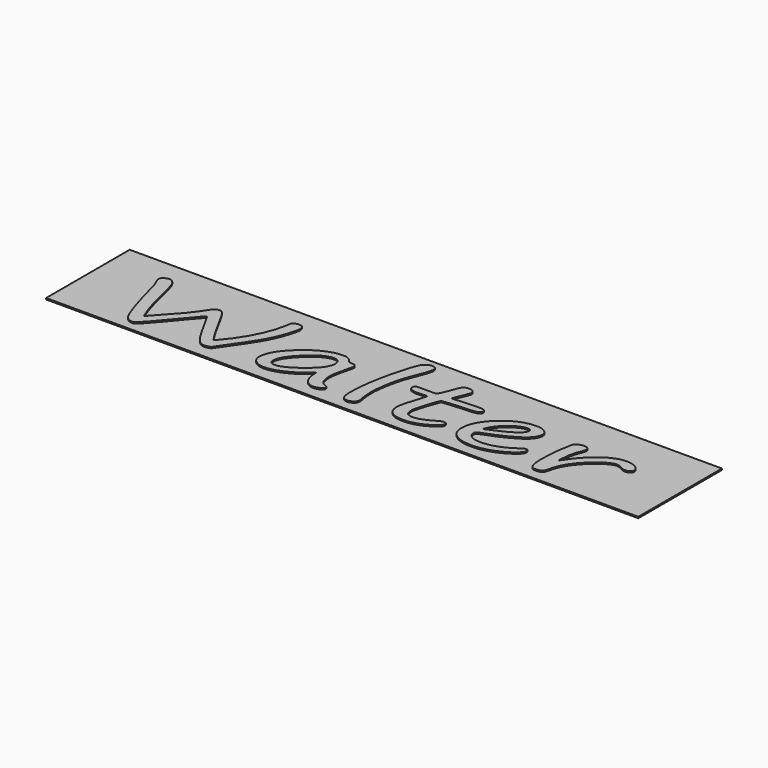
from build123d import *

# Parameters (mm, degrees)
F2_DEPTH = 10
F1_W     = 2210
F1_H     = 390
F3_DEPTH = 5


with BuildPart() as f2:
    # F0 (on Top) → F2 (new body)
    with BuildSketch(Plane.XY):
        with BuildLine():
            add(Edge.make_bspline(
                [(-660.5016762, -1.1913362), (-666.5863732, -6.8106798), (-677.7714664, -19.4541648), (-694.0569558, -39.1218166)],
                knots=[0, 0, 0, 0, 1, 1, 1, 1], degree=3))
            add(Edge.make_bspline(
                [(-645.2004876, -27.9441656), (-650.2113996, -18.2935372), (-655.3117958, -9.3759274), (-660.5016762, -1.1913362)],
                knots=[0, 0, 0, 0, 1, 1, 1, 1], degree=3))
            add(Edge.make_bspline(
                [(-610.3030212, -90.978609), (-626.4095422, -63.0039634), (-638.042031, -41.9924738), (-645.2004876, -27.9441656)],
                knots=[0, 0, 0, 0, 1, 1, 1, 1], degree=3))
            add(Edge.make_bspline(
                [(-574.3317698, -141.3695674), (-582.2060746, -135.6282276), (-594.1965002, -118.831233), (-610.3030212, -90.978609)],
                knots=[0, 0, 0, 0, 1, 1, 1, 1], degree=3))
            add(Edge.make_bspline(
                [(-550.9773334, -149.9821486), (-558.6726698, -149.9821486), (-566.4574904, -147.1112882), (-574.3317698, -141.3695674)],
                knots=[0, 0, 0, 0, 1, 1, 1, 1], degree=3))
            add(Edge.make_bspline(
                [(-538.897449, -147.6000858), (-543.908361, -149.1881192), (-547.9349722, -149.9821486), (-550.9773334, -149.9821486)],
                knots=[0, 0, 0, 0, 1, 1, 1, 1], degree=3))
            add(Edge.make_bspline(
                [(-528.428204, -141.7361656), (-530.2178118, -144.0570144), (-533.7075432, -146.0116714), (-538.897449, -147.6000858)],
                knots=[0, 0, 0, 0, 1, 1, 1, 1], degree=3))
            add(Edge.make_bspline(
                [(-515.2745346, -122.4961228), (-520.464415, -129.7034744), (-524.848963, -136.116822), (-528.428204, -141.7361656)],
                knots=[0, 0, 0, 0, 1, 1, 1, 1], degree=3))
            add(Edge.make_bspline(
                [(-448.1640262, -22.9964488), (-461.4071544, -44.740957), (-483.7773408, -77.907515), (-515.2745346, -122.4961228)],
                knots=[0, 0, 0, 0, 1, 1, 1, 1], degree=3))
            add(Edge.make_bspline(
                [(-413.8034396, 48.4669846), (-423.2883838, 22.6911916), (-434.7419042, -1.1299444), (-448.1640262, -22.9964488)],
                knots=[0, 0, 0, 0, 1, 1, 1, 1], degree=3))
            add(Edge.make_bspline(
                [(-399.307558, 106.7373278), (-399.307558, 93.78823), (-404.139527, 74.3647738), (-413.8034396, 48.4669846)],
                knots=[0, 0, 0, 0, 1, 1, 1, 1], degree=3))
            add(Edge.make_bspline(
                [(-420.7829278, 125.4277654), (-406.4660146, 125.4277654), (-399.307558, 119.1976026), (-399.307558, 106.7373278)],
                knots=[0, 0, 0, 0, 1, 1, 1, 1], degree=3))
            add(Edge.make_bspline(
                [(-434.473477, 120.8466468), (-429.641508, 123.9007174), (-425.0779916, 125.4277654), (-420.7829278, 125.4277654)],
                knots=[0, 0, 0, 0, 1, 1, 1, 1], degree=3))
            add(Edge.make_bspline(
                [(-441.4529652, 113.8834908), (-441.4529652, 115.5939268), (-439.1264776, 117.9149788), (-434.473477, 120.8466468)],
                knots=[0, 0, 0, 0, 1, 1, 1, 1], degree=3))
            add(Edge.make_bspline(
                [(-551.2457606, -107.2869838), (-488.251373, -36.1897422), (-451.6537576, 37.5337324), (-441.4529652, 113.8834908)],
                knots=[0, 0, 0, 0, 1, 1, 1, 1], degree=3))
            add(Edge.make_bspline(
                [(-614.8665376, -0.6411468), (-583.7272552, -59.888882), (-562.520338, -95.4375028), (-551.2457606, -107.2869838)],
                knots=[0, 0, 0, 0, 1, 1, 1, 1], degree=3))
            add(Edge.make_bspline(
                [(-641.173851, 43.1532538), (-636.162939, 37.900356), (-627.393843, 23.302214), (-614.8665376, -0.6411468)],
                knots=[0, 0, 0, 0, 1, 1, 1, 1], degree=3))
            add(Edge.make_bspline(
                [(-654.5959476, 51.2156456), (-650.6588206, 51.2156456), (-646.1847884, 48.5281986), (-641.173851, 43.1532538)],
                knots=[0, 0, 0, 0, 1, 1, 1, 1], degree=3))
            add(Edge.make_bspline(
                [(-676.0713174, 41.5038286), (-670.881437, 47.9783902), (-663.7229804, 51.2156456), (-654.5959476, 51.2156456)],
                knots=[0, 0, 0, 0, 1, 1, 1, 1], degree=3))
            add(Edge.make_bspline(
                [(-722.2433612, -22.8134418), (-711.3267206, -9.4979236), (-695.9360478, 11.9411496), (-676.0713174, 41.5038286)],
                knots=[0, 0, 0, 0, 1, 1, 1, 1], degree=3))
            add(Edge.make_bspline(
                [(-805.7288432, -115.7159738), (-760.9884958, -66.9740596), (-733.1600018, -36.006532), (-722.2433612, -22.8134418)],
                knots=[0, 0, 0, 0, 1, 1, 1, 1], degree=3))
            add(Edge.make_bspline(
                [(-852.9746466, 40.7706068), (-837.5839738, -28.249753), (-821.8353642, -80.411955), (-805.7288432, -115.7159738)],
                knots=[0, 0, 0, 0, 1, 1, 1, 1], degree=3))
            add(Edge.make_bspline(
                [(-872.5709244, 100.6903752), (-866.6651958, 92.5058094), (-860.1331032, 72.5325448), (-852.9746466, 40.7706068)],
                knots=[0, 0, 0, 0, 1, 1, 1, 1], degree=3))
            add(Edge.make_bspline(
                [(-892.9725092, 113.1508786), (-885.0982044, 113.1508786), (-878.2976846, 108.997369), (-872.5709244, 100.6903752)],
                knots=[0, 0, 0, 0, 1, 1, 1, 1], degree=3))
            add(Edge.make_bspline(
                [(-910.689695, 107.286933), (-905.3208462, 111.1962216), (-899.4151176, 113.1508786), (-892.9725092, 113.1508786)],
                knots=[0, 0, 0, 0, 1, 1, 1, 1], degree=3))
            add(Edge.make_bspline(
                [(-918.4745156, 94.460441), (-918.4745156, 99.2245412), (-915.8795754, 103.500047), (-910.689695, 107.286933)],
                knots=[0, 0, 0, 0, 1, 1, 1, 1], degree=3))
            add(Edge.make_bspline(
                [(-911.7634546, 73.9375712), (-916.2374868, 83.0993766), (-918.4745156, 89.9403332), (-918.4745156, 94.460441)],
                knots=[0, 0, 0, 0, 1, 1, 1, 1], degree=3))
            add(Edge.make_bspline(
                [(-901.8310894, 47.5507812), (-905.231362, 58.3010264), (-908.5421504, 67.0966146), (-911.7634546, 73.9375712)],
                knots=[0, 0, 0, 0, 1, 1, 1, 1], degree=3))
            add(Edge.make_bspline(
                [(-868.5442878, -72.2881714), (-881.608473, -30.5096164), (-892.704082, 9.4367096), (-901.8310894, 47.5507812)],
                knots=[0, 0, 0, 0, 1, 1, 1, 1], degree=3))
            add(Edge.make_bspline(
                [(-837.4050054, -149.4319338), (-844.9213734, -139.7813308), (-855.3011342, -114.0667264), (-868.5442878, -72.2881714)],
                knots=[0, 0, 0, 0, 1, 1, 1, 1], degree=3))
            add(Edge.make_bspline(
                [(-807.8763878, -164.0914676), (-820.0457564, -164.0914676), (-829.8886374, -159.2049648), (-837.4050054, -149.4319338)],
                knots=[0, 0, 0, 0, 1, 1, 1, 1], degree=3))
            add(Edge.make_bspline(
                [(-694.0569558, -39.1218166), (-761.8833124, -122.4349088), (-799.8231146, -164.0914676), (-807.8763878, -164.0914676)],
                knots=[0, 0, 0, 0, 1, 1, 1, 1], degree=3))
        make_face()
    extrude(amount=F2_DEPTH)



with BuildPart() as f2b:
    # F0 (on Top) → F2, piece 2 (new body)
    with BuildSketch(Plane.XY):
        with BuildLine():
            add(Edge.make_bspline(
                [(-190.7281174, -79.4343344), (-215.7826774, -102.4004556), (-240.5688102, -119.6250592), (-265.0865158, -131.1081198)],
                knots=[0, 0, 0, 0, 1, 1, 1, 1], degree=3))
            add(Edge.make_bspline(
                [(-177.30597, -134.7730096), (-186.2540598, -121.8239118), (-190.7281174, -103.3776952), (-190.7281174, -79.4343344)],
                knots=[0, 0, 0, 0, 1, 1, 1, 1], degree=3))
            add(Edge.make_bspline(
                [(-143.213836, -154.1966436), (-156.9938694, -154.1966436), (-168.357931, -147.7221074), (-177.30597, -134.7730096)],
                knots=[0, 0, 0, 0, 1, 1, 1, 1], degree=3))
            add(Edge.make_bspline(
                [(-120.9331592, -148.3327234), (-128.6284956, -152.242012), (-136.0553794, -154.1966436), (-143.213836, -154.1966436)],
                knots=[0, 0, 0, 0, 1, 1, 1, 1], degree=3))
            add(Edge.make_bspline(
                [(-109.3901546, -136.97204), (-109.3901546, -140.7589514), (-113.2378228, -144.5458374), (-120.9331592, -148.3327234)],
                knots=[0, 0, 0, 0, 1, 1, 1, 1], degree=3))
            add(Edge.make_bspline(
                [(-121.2016118, -126.1610126), (-113.327307, -129.0926806), (-109.3901546, -132.6963564), (-109.3901546, -136.97204)],
                knots=[0, 0, 0, 0, 1, 1, 1, 1], degree=3))
            add(Edge.make_bspline(
                [(-145.898235, -73.0213932), (-145.898235, -102.5840722), (-137.6660188, -120.2972702), (-121.2016118, -126.1610126)],
                knots=[0, 0, 0, 0, 1, 1, 1, 1], degree=3))
            add(Edge.make_bspline(
                [(-131.4023788, 3.20675), (-141.066266, -32.8304652), (-145.898235, -58.2398632), (-145.898235, -73.0213932)],
                knots=[0, 0, 0, 0, 1, 1, 1, 1], degree=3))
            add(Edge.make_bspline(
                [(-128.7179798, 18.781903), (-128.7179798, 14.995017), (-129.612771, 9.8033078), (-131.4023788, 3.20675)],
                knots=[0, 0, 0, 0, 1, 1, 1, 1], degree=3))
            add(Edge.make_bspline(
                [(-150.1932988, 30.1431706), (-135.8764364, 30.1431706), (-128.7179798, 26.3560814), (-128.7179798, 18.781903)],
                knots=[0, 0, 0, 0, 1, 1, 1, 1], degree=3))
            add(Edge.make_bspline(
                [(-161.1994236, 36.0065066), (-158.872936, 32.0976244), (-155.2042362, 30.1431706), (-150.1932988, 30.1431706)],
                knots=[0, 0, 0, 0, 1, 1, 1, 1], degree=3))
            add(Edge.make_bspline(
                [(-194.754754, 53.5977084), (-179.7219926, 53.5977084), (-168.5368994, 47.733966), (-161.1994236, 36.0065066)],
                knots=[0, 0, 0, 0, 1, 1, 1, 1], degree=3))
            add(Edge.make_bspline(
                [(-320.1171652, -2.107565), (-278.0612676, 35.0292924), (-236.2737972, 53.5977084), (-194.754754, 53.5977084)],
                knots=[0, 0, 0, 0, 1, 1, 1, 1], degree=3))
            add(Edge.make_bspline(
                [(-383.201037, -105.8211498), (-383.201037, -73.6931978), (-362.1730882, -39.1220198), (-320.1171652, -2.107565)],
                knots=[0, 0, 0, 0, 1, 1, 1, 1], degree=3))
            add(Edge.make_bspline(
                [(-368.168301, -136.4224348), (-378.190125, -128.4818614), (-383.201037, -118.2814246), (-383.201037, -105.8211498)],
                knots=[0, 0, 0, 0, 1, 1, 1, 1], degree=3))
            add(Edge.make_bspline(
                [(-332.4655022, -148.3327234), (-346.2455356, -148.3327234), (-358.1464516, -144.3626272), (-368.168301, -136.4224348)],
                knots=[0, 0, 0, 0, 1, 1, 1, 1], degree=3))
            add(Edge.make_bspline(
                [(-265.0865158, -131.1081198), (-289.6042468, -142.5911804), (-312.0639174, -148.3327234), (-332.4655022, -148.3327234)],
                knots=[0, 0, 0, 0, 1, 1, 1, 1], degree=3))
        make_face()
        with BuildLine():
            add(Edge.make_bspline(
                [(-207.103091, 23.7296198), (-230.7259546, 23.7296198), (-258.1965118, 8.5816694), (-289.5147626, -21.714206)],
                knots=[0, 0, 0, 0, 1, 1, 1, 1], degree=3))
            add(Edge.make_bspline(
                [(-181.8694864, -2.473579), (-181.8694864, 14.9952202), (-190.2806964, 23.7296198), (-207.103091, 23.7296198)],
                knots=[0, 0, 0, 0, 1, 1, 1, 1], degree=3))
            add(Edge.make_bspline(
                [(-234.2156606, -77.2358882), (-199.3182196, -50.1160796), (-181.8694864, -25.1953014), (-181.8694864, -2.473579)],
                knots=[0, 0, 0, 0, 1, 1, 1, 1], degree=3))
            add(Edge.make_bspline(
                [(-316.0905286, -117.9150296), (-296.404792, -117.9150296), (-269.1131524, -104.3553158), (-234.2156606, -77.2358882)],
                knots=[0, 0, 0, 0, 1, 1, 1, 1], degree=3))
            add(Edge.make_bspline(
                [(-336.4921388, -96.8425292), (-336.4921388, -110.8908628), (-329.6915936, -117.9150296), (-316.0905286, -117.9150296)],
                knots=[0, 0, 0, 0, 1, 1, 1, 1], degree=3))
            add(Edge.make_bspline(
                [(-289.5147626, -21.714206), (-320.8330134, -51.8877042), (-336.4921388, -76.9304786), (-336.4921388, -96.8425292)],
                knots=[0, 0, 0, 0, 1, 1, 1, 1], degree=3))
        make_face(mode=Mode.SUBTRACT)
    extrude(amount=F2_DEPTH)


with BuildPart() as f2c:
    # F0 (on Top) → F2, piece 3 (new body)
    with BuildSketch(Plane.XY):
        with BuildLine():
            add(Edge.make_bspline(
                [(45.5008488, 164.0914422), (58.386091, 164.0914422), (64.8286994, 158.4720986), (64.8286994, 147.2334622)],
                knots=[0, 0, 0, 0, 1, 1, 1, 1], degree=3))
            add(Edge.make_bspline(
                [(19.461988, 148.6992962), (28.0521664, 158.9607184), (36.7317782, 164.0914422), (45.5008488, 164.0914422)],
                knots=[0, 0, 0, 0, 1, 1, 1, 1], degree=3))
            add(Edge.make_bspline(
                [(-14.8985732, 42.6030644), (-0.402717, 103.072438), (11.0508034, 138.4378486), (19.461988, 148.6992962)],
                knots=[0, 0, 0, 0, 1, 1, 1, 1], degree=3))
            add(Edge.make_bspline(
                [(-36.3739176, -109.4860142), (-36.3739176, -68.5622962), (-29.215461, -17.8659282), (-14.8985732, 42.6030644)],
                knots=[0, 0, 0, 0, 1, 1, 1, 1], degree=3))
            add(Edge.make_bspline(
                [(-31.0051196, -148.5163146), (-34.5843098, -140.4537196), (-36.3739176, -127.4436364), (-36.3739176, -109.4860142)],
                knots=[0, 0, 0, 0, 1, 1, 1, 1], degree=3))
            add(Edge.make_bspline(
                [(-11.1403892, -160.6096102), (-20.6253334, -160.6096102), (-27.2469102, -156.5785032), (-31.0051196, -148.5163146)],
                knots=[0, 0, 0, 0, 1, 1, 1, 1], degree=3))
            add(Edge.make_bspline(
                [(8.187436, -154.0130524), (2.102739, -158.4107576), (-4.3398694, -160.6096102), (-11.1403892, -160.6096102)],
                knots=[0, 0, 0, 0, 1, 1, 1, 1], degree=3))
            add(Edge.make_bspline(
                [(17.3144942, -138.2548924), (17.3144942, -144.3626272), (14.272133, -149.6153472), (8.187436, -154.0130524)],
                knots=[0, 0, 0, 0, 1, 1, 1, 1], degree=3))
            add(Edge.make_bspline(
                [(16.2407092, -130.008884), (16.9565574, -133.79577), (17.3144942, -136.544431), (17.3144942, -138.2548924)],
                knots=[0, 0, 0, 0, 1, 1, 1, 1], degree=3))
            add(Edge.make_bspline(
                [(10.6033824, -69.9061086), (10.6033824, -90.0625834), (12.4824998, -110.0968334), (16.2407092, -130.008884)],
                knots=[0, 0, 0, 0, 1, 1, 1, 1], degree=3))
            add(Edge.make_bspline(
                [(18.6566556, -2.6571702), (13.2878068, -31.242635), (10.6033824, -53.6589478), (10.6033824, -69.9061086)],
                knots=[0, 0, 0, 0, 1, 1, 1, 1], degree=3))
            add(Edge.make_bspline(
                [(41.4742122, 75.7700034), (31.6313566, 52.0706858), (24.0255044, 25.9282692), (18.6566556, -2.6571702)],
                knots=[0, 0, 0, 0, 1, 1, 1, 1], degree=3))
            add(Edge.make_bspline(
                [(64.8286994, 147.2334622), (64.8286994, 137.2164134), (57.0438788, 113.3952774), (41.4742122, 75.7700034)],
                knots=[0, 0, 0, 0, 1, 1, 1, 1], degree=3))
        make_face()
    extrude(amount=F2_DEPTH)


with BuildPart() as f2d:
    # F0 (on Top) → F2, piece 4 (new body)
    with BuildSketch(Plane.XY):
        with BuildLine():
            add(Edge.make_bspline(
                [(218.6460702, 38.7551676), (237.0791042, 39.7323818), (254.4383532, 40.8930094), (270.7237918, 42.2370504)],
                knots=[0, 0, 0, 0, 1, 1, 1, 1], degree=3))
            Line((218.6460702, 38.7551676), (234.2157114, 77.2358374))
            add(Edge.make_bspline(
                [(243.8795986, 103.4390362), (243.8795986, 101.7286002), (240.6582944, 92.9942006), (234.2157114, 77.2358374)],
                knots=[0, 0, 0, 0, 1, 1, 1, 1], degree=3))
            add(Edge.make_bspline(
                [(237.4370156, 113.7004838), (241.7320794, 110.035594), (243.8795986, 106.6151284), (243.8795986, 103.4390362)],
                knots=[0, 0, 0, 0, 1, 1, 1, 1], degree=3))
            add(Edge.make_bspline(
                [(219.451428, 119.1978058), (227.1467644, 119.1978058), (233.1419518, 117.3653736), (237.4370156, 113.7004838)],
                knots=[0, 0, 0, 0, 1, 1, 1, 1], degree=3))
            add(Edge.make_bspline(
                [(194.2178234, 99.9571788), (198.512938, 112.784255), (206.9241226, 119.1978058), (219.451428, 119.1978058)],
                knots=[0, 0, 0, 0, 1, 1, 1, 1], degree=3))
            add(Edge.make_bspline(
                [(179.4535146, 60.5608644), (185.0013318, 73.8763826), (189.9227596, 87.008462), (194.2178234, 99.9571788)],
                knots=[0, 0, 0, 0, 1, 1, 1, 1], degree=3))
            add(Edge.make_bspline(
                [(166.836725, 37.2893336), (169.7001178, 39.6101824), (173.9056974, 47.3673678), (179.4535146, 60.5608644)],
                knots=[0, 0, 0, 0, 1, 1, 1, 1], degree=3))
            add(Edge.make_bspline(
                [(156.9044106, 33.8080604), (160.6625692, 33.8080604), (163.9733322, 34.9684848), (166.836725, 37.2893336)],
                knots=[0, 0, 0, 0, 1, 1, 1, 1], degree=3))
            Line((156.9044106, 33.8080604), (101.6053086, 33.8080604))
            add(Edge.make_bspline(
                [(85.7672148, 23.1800146), (85.7672148, 30.26537), (91.0465794, 33.8080604), (101.6053086, 33.8080604)],
                knots=[0, 0, 0, 0, 1, 1, 1, 1], degree=3))
            add(Edge.make_bspline(
                [(120.127776, 4.489577), (97.2207352, 4.489577), (85.7672148, 10.7197144), (85.7672148, 23.1800146)],
                knots=[0, 0, 0, 0, 1, 1, 1, 1], degree=3))
            Line((120.127776, 4.489577), (148.0457796, 6.138418))
            add(Edge.make_bspline(
                [(154.4884642, 3.389757), (154.4884642, 5.2222146), (152.3408942, 6.138418), (148.0457796, 6.138418)],
                knots=[0, 0, 0, 0, 1, 1, 1, 1], degree=3))
            add(Edge.make_bspline(
                [(141.334744, -43.8859168), (150.1038908, -17.6217326), (154.4884642, -1.8631662), (154.4884642, 3.389757)],
                knots=[0, 0, 0, 0, 1, 1, 1, 1], degree=3))
            add(Edge.make_bspline(
                [(127.912622, -102.339267), (127.912622, -89.7569706), (132.3866542, -70.272529), (141.334744, -43.8859168)],
                knots=[0, 0, 0, 0, 1, 1, 1, 1], degree=3))
            add(Edge.make_bspline(
                [(192.875662, -154.5632418), (149.5669602, -154.5632418), (127.912622, -137.1552502), (127.912622, -102.339267)],
                knots=[0, 0, 0, 0, 1, 1, 1, 1], degree=3))
            add(Edge.make_bspline(
                [(268.8447506, -133.6737738), (244.1480512, -147.6000858), (218.8250132, -154.5632418), (192.875662, -154.5632418)],
                knots=[0, 0, 0, 0, 1, 1, 1, 1], degree=3))
            add(Edge.make_bspline(
                [(306.1581634, -99.407599), (306.1581634, -108.2033904), (293.7203676, -119.6254656), (268.8447506, -133.6737738)],
                knots=[0, 0, 0, 0, 1, 1, 1, 1], degree=3))
            add(Edge.make_bspline(
                [(294.6151588, -90.978609), (302.3104952, -90.978609), (306.1581634, -93.7882554), (306.1581634, -99.407599)],
                knots=[0, 0, 0, 0, 1, 1, 1, 1], degree=3))
            add(Edge.make_bspline(
                [(270.186912, -100.690426), (280.7456412, -94.2158644), (288.8883732, -90.978609), (294.6151588, -90.978609)],
                knots=[0, 0, 0, 0, 1, 1, 1, 1], degree=3))
            add(Edge.make_bspline(
                [(206.0292806, -124.328555), (221.4199534, -124.328555), (242.805839, -116.4491702), (270.186912, -100.690426)],
                knots=[0, 0, 0, 0, 1, 1, 1, 1], degree=3))
            add(Edge.make_bspline(
                [(182.6748188, -117.7320226), (187.8646992, -122.1297024), (195.6495198, -124.328555), (206.0292806, -124.328555)],
                knots=[0, 0, 0, 0, 1, 1, 1, 1], degree=3))
            add(Edge.make_bspline(
                [(174.8899982, -90.795602), (174.8899982, -104.2331164), (177.4849384, -113.2119148), (182.6748188, -117.7320226)],
                knots=[0, 0, 0, 0, 1, 1, 1, 1], degree=3))
            add(Edge.make_bspline(
                [(188.5805728, -36.7397538), (179.4535146, -64.4700006), (174.8899982, -82.4886082), (174.8899982, -90.795602)],
                knots=[0, 0, 0, 0, 1, 1, 1, 1], degree=3))
            add(Edge.make_bspline(
                [(204.687043, 6.8716398), (203.0764036, 5.6500014), (197.7075802, -8.8871298), (188.5805728, -36.7397538)],
                knots=[0, 0, 0, 0, 1, 1, 1, 1], degree=3))
            add(Edge.make_bspline(
                [(240.1214146, 11.818747), (218.2881588, 9.8643186), (206.4767016, 8.2152744), (204.687043, 6.8716398)],
                knots=[0, 0, 0, 0, 1, 1, 1, 1], degree=3))
            add(Edge.make_bspline(
                [(311.7954902, 16.3998656), (285.8460882, 15.3006298), (261.9547212, 13.7736072), (240.1214146, 11.818747)],
                knots=[0, 0, 0, 0, 1, 1, 1, 1], degree=3))
            add(Edge.make_bspline(
                [(342.1294402, 32.5252334), (342.1294402, 22.6302062), (332.018132, 17.2550836), (311.7954902, 16.3998656)],
                knots=[0, 0, 0, 0, 1, 1, 1, 1], degree=3))
            add(Edge.make_bspline(
                [(336.760566, 41.5038286), (340.339807, 39.793799), (342.1294402, 36.800917), (342.1294402, 32.5252334)],
                knots=[0, 0, 0, 0, 1, 1, 1, 1], degree=3))
            add(Edge.make_bspline(
                [(310.9901578, 44.0694826), (324.591172, 44.0694826), (333.181325, 43.2142646), (336.760566, 41.5038286)],
                knots=[0, 0, 0, 0, 1, 1, 1, 1], degree=3))
            add(Edge.make_bspline(
                [(270.7237918, 42.2370504), (286.8303382, 43.4586634), (300.2524602, 44.0694826), (310.9901578, 44.0694826)],
                knots=[0, 0, 0, 0, 1, 1, 1, 1], degree=3))
        make_face()
    extrude(amount=F2_DEPTH)


with BuildPart() as f2e:
    # F0 (on Top) → F2, piece 5 (new body)
    with BuildSketch(Plane.XY):
        with BuildLine():
            add(Edge.make_bspline(
                [(596.8808992, -84.015453), (596.8808992, -96.4757278), (580.684894, -111.5014788), (548.292909, -129.0926806)],
                knots=[0, 0, 0, 0, 1, 1, 1, 1], degree=3))
            add(Edge.make_bspline(
                [(588.2908224, -74.6702342), (594.0175318, -74.6702342), (596.8808992, -77.7852902), (596.8808992, -84.015453)],
                knots=[0, 0, 0, 0, 1, 1, 1, 1], degree=3))
            add(Edge.make_bspline(
                [(574.868675, -80.7171614), (580.7744036, -76.6858766), (585.2484612, -74.6702342), (588.2908224, -74.6702342)],
                knots=[0, 0, 0, 0, 1, 1, 1, 1], degree=3))
            add(Edge.make_bspline(
                [(457.0226318, -124.328555), (495.4993392, -124.328555), (534.7813282, -109.7914238), (574.868675, -80.7171614)],
                knots=[0, 0, 0, 0, 1, 1, 1, 1], degree=3))
            add(Edge.make_bspline(
                [(418.9038612, -115.1663432), (427.4939634, -121.2744844), (440.2002372, -124.328555), (457.0226318, -124.328555)],
                knots=[0, 0, 0, 0, 1, 1, 1, 1], degree=3))
            add(Edge.make_bspline(
                [(406.018619, -90.795602), (406.018619, -100.9346216), (410.3137082, -109.0582274), (418.9038612, -115.1663432)],
                knots=[0, 0, 0, 0, 1, 1, 1, 1], degree=3))
            add(Edge.make_bspline(
                [(419.97757, -77.9685004), (410.6715942, -81.2669698), (406.018619, -85.5426788), (406.018619, -90.795602)],
                knots=[0, 0, 0, 0, 1, 1, 1, 1], degree=3))
            add(Edge.make_bspline(
                [(528.4281786, -27.2109438), (501.4050424, -44.4357252), (465.254848, -61.3549192), (419.97757, -77.9685004)],
                knots=[0, 0, 0, 0, 1, 1, 1, 1], degree=3))
            add(Edge.make_bspline(
                [(568.9629718, 26.8449044), (568.9629718, 8.0320642), (555.451391, -9.9865434), (528.4281786, -27.2109438)],
                knots=[0, 0, 0, 0, 1, 1, 1, 1], degree=3))
            add(Edge.make_bspline(
                [(556.0777296, 48.4669846), (564.667908, 42.481246), (568.9629718, 35.2738944), (568.9629718, 26.8449044)],
                knots=[0, 0, 0, 0, 1, 1, 1, 1], degree=3))
            add(Edge.make_bspline(
                [(523.327757, 57.4456052), (536.749879, 57.4456052), (547.6665196, 54.4527232), (556.0777296, 48.4669846)],
                knots=[0, 0, 0, 0, 1, 1, 1, 1], degree=3))
            add(Edge.make_bspline(
                [(410.0452556, 10.169906), (444.5847598, 41.6870388), (482.3455936, 57.4456052), (523.327757, 57.4456052)],
                knots=[0, 0, 0, 0, 1, 1, 1, 1], degree=3))
            add(Edge.make_bspline(
                [(358.235885, -89.512775), (358.235885, -54.5751766), (375.5056752, -21.3476078), (410.0452556, 10.169906)],
                knots=[0, 0, 0, 0, 1, 1, 1, 1], degree=3))
            add(Edge.make_bspline(
                [(381.5903468, -138.0712758), (366.0207056, -126.466219), (358.235885, -110.2800436), (358.235885, -89.512775)],
                knots=[0, 0, 0, 0, 1, 1, 1, 1], degree=3))
            add(Edge.make_bspline(
                [(448.4324534, -155.4788864), (419.6196586, -155.4788864), (397.3389564, -149.676358), (381.5903468, -138.0712758)],
                knots=[0, 0, 0, 0, 1, 1, 1, 1], degree=3))
            add(Edge.make_bspline(
                [(548.292909, -129.0926806), (516.0798924, -146.683476), (482.7930654, -155.4788864), (448.4324534, -155.4788864)],
                knots=[0, 0, 0, 0, 1, 1, 1, 1], degree=3))
        make_face()
        with BuildLine():
            add(Edge.make_bspline(
                [(410.3137082, -55.4301914), (486.1933126, -24.645874), (524.1330894, 0.0914908), (524.1330894, 18.781903)],
                knots=[0, 0, 0, 0, 1, 1, 1, 1], degree=3))
            add(Edge.make_bspline(
                [(453.801353, 5.0392076), (433.2207744, -11.4523774), (418.7248928, -31.6088522), (410.3137082, -55.4301914)],
                knots=[0, 0, 0, 0, 1, 1, 1, 1], degree=3))
            add(Edge.make_bspline(
                [(509.6372586, 29.7765724), (493.1727754, 29.7765724), (474.5607984, 21.5307672), (453.801353, 5.0392076)],
                knots=[0, 0, 0, 0, 1, 1, 1, 1], degree=3))
            add(Edge.make_bspline(
                [(524.1330894, 18.781903), (524.1330894, 26.1116826), (519.3011458, 29.7765724), (509.6372586, 29.7765724)],
                knots=[0, 0, 0, 0, 1, 1, 1, 1], degree=3))
        make_face(mode=Mode.SUBTRACT)
    extrude(amount=F2_DEPTH)


with BuildPart() as f2f:
    # F0 (on Top) → F2, piece 6 (new body)
    with BuildSketch(Plane.XY):
        with BuildLine():
            Line((706.9425282, -73.3729824994), (706.942198, -73.3874072))
            add(Edge.make_bspline(
                [(706.942198, -73.3874072), (706.9423080653, -73.3872719632), (706.942418132, -73.3871367232), (706.9425282, -73.3870014799)],
                knots=[0, 0, 0, 0, 6.15034e-05, 6.15034e-05, 6.15034e-05, 6.15034e-05], degree=3))
            Line((706.9425282, -73.3870014799), (706.9425282, -73.3729824994))
        make_face()
        with BuildLine():
            add(Edge.make_bspline(
                [(706.942198, -73.3874072), (706.9423080653, -73.3872719632), (706.942418132, -73.3871367232), (706.9425282, -73.3870014799)],
                knots=[0, 0, 0, 0, 6.15034e-05, 6.15034e-05, 6.15034e-05, 6.15034e-05], degree=3))
            Line((706.942198, -73.3874072), (706.9425282, -73.3874072))
            Line((706.9425282, -73.3874072), (706.9425282, -73.3870014799))
        make_face()
        with BuildLine():
            Line((706.9425282, -73.3874072), (706.942198, -73.3874072))
            Line((706.942198, -73.3874072), (706.9425282, -73.3729824994))
            Line((706.9425282, -73.3729824994), (706.9425282, -68.4402746))
            Line((706.9425282, -68.4402746), (707.2106506, -61.6601256))
            add(Edge.make_bspline(
                [(712.5794232, -20.2477878), (710.7898408, -25.500711), (709.000233, -39.3048236), (707.2106506, -61.6601256)],
                knots=[0, 0, 0, 0, 1, 1, 1, 1], degree=3))
            add(Edge.make_bspline(
                [(715.532351, -7.2382888), (714.9955728, -11.3915698), (714.011272, -15.7280864), (712.5794232, -20.2477878)],
                knots=[0, 0, 0, 0, 1, 1, 1, 1], degree=3))
            add(Edge.make_bspline(
                [(722.7802918, 12.7349758), (718.6641456, 3.0843474), (716.2481738, -3.573399), (715.532351, -7.2382888)],
                knots=[0, 0, 0, 0, 1, 1, 1, 1], degree=3))
            add(Edge.make_bspline(
                [(728.1490644, 32.8918316), (728.1490644, 28.127325), (726.359482, 21.4083646), (722.7802918, 12.7349758)],
                knots=[0, 0, 0, 0, 1, 1, 1, 1], degree=3))
            add(Edge.make_bspline(
                [(723.0487444, 42.0534338), (726.4489662, 39.2437874), (728.1490644, 36.18992), (728.1490644, 32.8918316)],
                knots=[0, 0, 0, 0, 1, 1, 1, 1], degree=3))
            add(Edge.make_bspline(
                [(708.2844356, 46.4515454), (714.905987, 46.4515454), (719.8274148, 44.9855082), (723.0487444, 42.0534338)],
                knots=[0, 0, 0, 0, 1, 1, 1, 1], degree=3))
            add(Edge.make_bspline(
                [(689.2249614, 41.6868356), (695.1307154, 44.8633088), (701.483865, 46.4515454), (708.2844356, 46.4515454)],
                knots=[0, 0, 0, 0, 1, 1, 1, 1], degree=3))
            add(Edge.make_bspline(
                [(677.6819568, 31.4254134), (679.6505838, 35.0902778), (683.498252, 38.5107688), (689.2249614, 41.6868356)],
                knots=[0, 0, 0, 0, 1, 1, 1, 1], degree=3))
            add(Edge.make_bspline(
                [(673.1185166, 11.818747), (674.3712192, 21.2253576), (675.892349, 27.7609046), (677.6819568, 31.4254134)],
                knots=[0, 0, 0, 0, 1, 1, 1, 1], degree=3))
            add(Edge.make_bspline(
                [(670.4340414, -4.4896278), (670.9708196, -2.1683726), (671.8656362, 3.2677608), (673.1185166, 11.818747)],
                knots=[0, 0, 0, 0, 1, 1, 1, 1], degree=3))
            add(Edge.make_bspline(
                [(663.9914584, -60.3772986), (665.0652434, -37.2891812), (667.2127626, -18.6599576), (670.4340414, -4.4896278)],
                knots=[0, 0, 0, 0, 1, 1, 1, 1], degree=3))
            add(Edge.make_bspline(
                [(662.6491954, -98.3083632), (662.6491954, -92.5666424), (663.0966164, -79.9229542), (663.9914584, -60.3772986)],
                knots=[0, 0, 0, 0, 1, 1, 1, 1], degree=3))
            add(Edge.make_bspline(
                [(668.5549748, -143.3855908), (664.617797, -134.4678032), (662.6491954, -119.4420522), (662.6491954, -98.3083632)],
                knots=[0, 0, 0, 0, 1, 1, 1, 1], degree=3))
            add(Edge.make_bspline(
                [(687.6143728, -156.7617134), (678.845226, -156.7617134), (672.4921018, -152.3029974), (668.5549748, -143.3855908)],
                knots=[0, 0, 0, 0, 1, 1, 1, 1], degree=3))
            add(Edge.make_bspline(
                [(708.8212392, -152.1805948), (703.8103272, -155.2346654), (696.7413802, -156.7617134), (687.6143728, -156.7617134)],
                knots=[0, 0, 0, 0, 1, 1, 1, 1], degree=3))
            add(Edge.make_bspline(
                [(719.0221078, -133.3071756), (717.2324492, -142.8357824), (713.8321512, -149.1269306), (708.8212392, -152.1805948)],
                knots=[0, 0, 0, 0, 1, 1, 1, 1], degree=3))
            add(Edge.make_bspline(
                [(779.1531026, -31.60903), (746.2242124, -62.3933474), (726.180539, -96.2927208), (719.0221078, -133.3071756)],
                knots=[0, 0, 0, 0, 1, 1, 1, 1], degree=3))
            add(Edge.make_bspline(
                [(856.4644034, 14.567408), (837.8524264, 14.567408), (812.0819674, -0.824738), (779.1531026, -31.60903)],
                knots=[0, 0, 0, 0, 1, 1, 1, 1], degree=3))
            add(Edge.make_bspline(
                [(876.5975864, 7.7878686), (870.1549526, 12.30757), (863.4438916, 14.567408), (856.4644034, 14.567408)],
                knots=[0, 0, 0, 0, 1, 1, 1, 1], degree=3))
            add(Edge.make_bspline(
                [(897.267573, 1.0076942), (889.751205, 1.0076942), (882.861201, 3.2677608), (876.5975864, 7.7878686)],
                knots=[0, 0, 0, 0, 1, 1, 1, 1], degree=3))
            add(Edge.make_bspline(
                [(913.1056668, 5.5888128), (909.705445, 2.5347422), (904.4260804, 1.0076942), (897.267573, 1.0076942)],
                knots=[0, 0, 0, 0, 1, 1, 1, 1], degree=3))
            add(Edge.make_bspline(
                [(918.474541, 15.850235), (918.474541, 12.063349), (916.6849078, 8.6428834), (913.1056668, 5.5888128)],
                knots=[0, 0, 0, 0, 1, 1, 1, 1], degree=3))
            add(Edge.make_bspline(
                [(903.7102322, 38.2055624), (913.5531132, 31.8534034), (918.474541, 24.4016276), (918.474541, 15.850235)],
                knots=[0, 0, 0, 0, 1, 1, 1, 1], degree=3))
            add(Edge.make_bspline(
                [(865.591487, 47.9173794), (881.161052, 47.9173794), (893.8673258, 44.6800986), (903.7102322, 38.2055624)],
                knots=[0, 0, 0, 0, 1, 1, 1, 1], degree=3))
            add(Edge.make_bspline(
                [(841.70012, 44.8021202), (849.9323616, 46.8789512), (857.8961252, 47.9173794), (865.591487, 47.9173794)],
                knots=[0, 0, 0, 0, 1, 1, 1, 1], degree=3))
            add(Edge.make_bspline(
                [(814.050569, 34.1740744), (824.2513614, 39.304976), (833.4678784, 42.8476664), (841.70012, 44.8021202)],
                knots=[0, 0, 0, 0, 1, 1, 1, 1], degree=3))
            add(Edge.make_bspline(
                [(780.4953402, 11.63574), (792.8436518, 21.5307672), (804.028745, 29.0435538), (814.050569, 34.1740744)],
                knots=[0, 0, 0, 0, 1, 1, 1, 1], degree=3))
            add(Edge.make_bspline(
                [(746.9400098, -19.5151756), (757.1408022, -8.6429088), (768.3259208, 1.7407128), (780.4953402, 11.63574)],
                knots=[0, 0, 0, 0, 1, 1, 1, 1], degree=3))
            add(Edge.make_bspline(
                [(713.384781, -64.2257796), (725.5541242, -45.168566), (736.7392174, -30.2650144), (746.9400098, -19.5151756)],
                knots=[0, 0, 0, 0, 1, 1, 1, 1], degree=3))
            add(Edge.make_bspline(
                [(706.9425282, -73.3870014799), (708.7320445637, -71.1881789506), (710.8794790939, -68.1344467891), (713.384781, -64.2257796)],
                knots=[6.15034e-05, 6.15034e-05, 6.15034e-05, 6.15034e-05, 1, 1, 1, 1], degree=3))
            Line((706.9425282, -73.3870014799), (706.9425282, -73.3874072))
        make_face()
        Polygon((706.9425282, -68.4402746), (706.9425282, -73.3729824994), (707.2106506, -61.6601256), align=None)
    extrude(amount=F2_DEPTH)


with BuildPart() as f2_1:
    add(f2.part)

    add(f2b.part)  # F3 merges F2b

    add(f2c.part)  # F3 merges F2c

    add(f2d.part)  # F3 merges F2d

    add(f2e.part)  # F3 merges F2e

    add(f2f.part)  # F3 merges F2f
    # F1 (on Top) → F3 (join)
    with BuildSketch(Plane.XY):
        with Locations((-0.3247356, -1.8587652594)):
            Rectangle(F1_W, F1_H)
    extrude(amount=F3_DEPTH)


solid = f2_1.part
